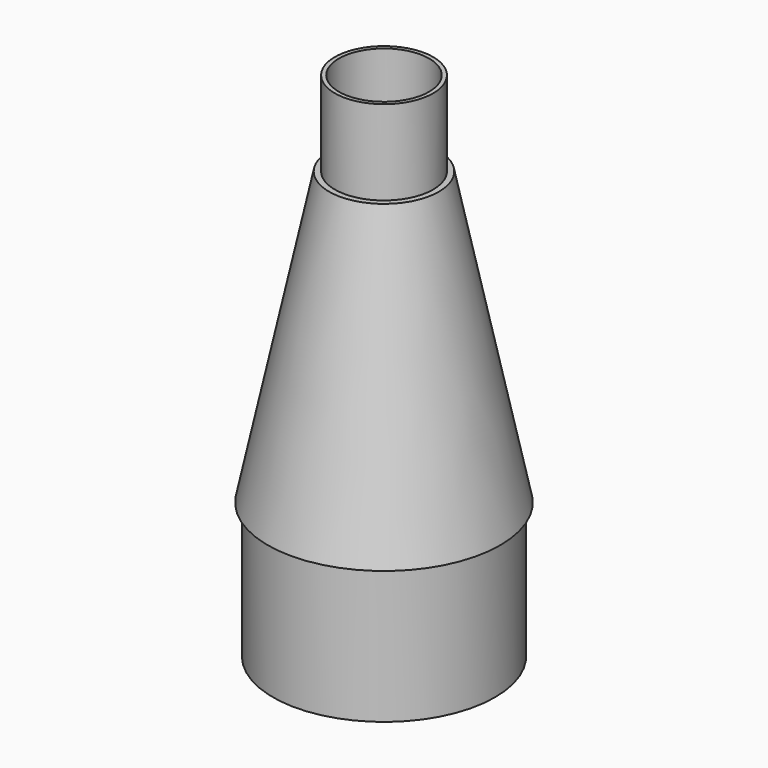
from build123d import *

# Parameters (mm, degrees)
F2_R      = 32.75
F3_DEPTH  = 40
F4_R      = 30
F5_DEPTH  = 35
F7_R      = 14.5
F8_DEPTH  = 25
F9_R      = 13.305561
F10_DEPTH = 140


with BuildPart() as f1:
    # F0 (on Front) → F1 (revolve)
    with BuildSketch(Plane.XZ):
        Polygon((16.2, 140.915044), (0, 140.915044), (0, 55.007186), (34.3, 55.007186), align=None)
    revolve(axis=Axis((0, 0, 55.007186), (0, 0, 1)))

    # F2 (on face) → F3 (join)
    with BuildSketch(Plane(origin=(0, 0, 55.007186), x_dir=(1, 0, 0), z_dir=(0, 0, -1))):
        Circle(F2_R)
    extrude(amount=F3_DEPTH)

    # F4 (on face) → F5 (cut)
    with BuildSketch(Plane(origin=(0, 0, 15.007186), x_dir=(1, 0, 0), z_dir=(0, 0, -1))):
        Circle(F4_R)
    extrude(amount=-F5_DEPTH, mode=Mode.SUBTRACT)

    # F7 (on face) → F8 (join)
    with BuildSketch(Plane.XY.offset(140.915044)):
        Circle(F7_R)
    extrude(amount=F8_DEPTH)

    # F9 (on face) → F10 (cut)
    with BuildSketch(Plane.XY.offset(165.915044)):
        Circle(F9_R)
    extrude(amount=-F10_DEPTH, mode=Mode.SUBTRACT)


solid = f1.part
